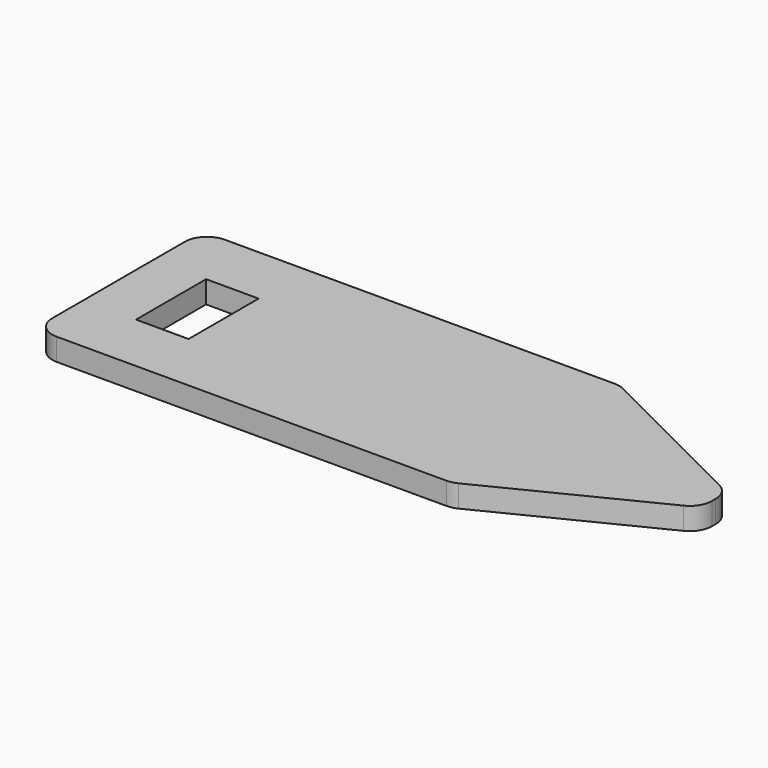
from build123d import *

# Parameters (mm, degrees)
F0_W       = 3
F0_H       = 3.5
F0_W_2     = 25
F0_H_2     = 12
F1_DEPTH   = 1.27
F2_SIZE2   = 5.08
F2_SIZE    = 10.16
F2_2_SIZE2 = 5.08
F2_2_SIZE  = 10.16
F3_R       = 1.27
F4_R       = 1.27


with BuildPart() as f1:
    # F0 (on Top) → F1 (new body)
    with BuildSketch(Plane.XY):
        Polygon((-42.1337384582, -30.2597887341), (-45.1337384582, -30.2597887341), (-45.1337384582, -42.2597887341), (-42.1337384582, -42.2597887341), (-42.1337384582, -38.7597887341), (-42.1337384582, -33.7597887341), align=None)
        with Locations((-40.6337384582, -32.0097887341)):
            Rectangle(F0_W, F0_H)
        with Locations((-40.6337384582, -40.5097887341)):
            Rectangle(F0_W, F0_H)
        Polygon((-36.1337384582, -30.2597887341), (-39.1337384582, -30.2597887341), (-39.1337384582, -33.7597887341), (-39.1337384582, -38.7597887341), (-39.1337384582, -42.2597887341), (-36.1337384582, -42.2597887341), align=None)
        with Locations((-23.6337384582, -36.2597887341)):
            Rectangle(F0_W_2, F0_H_2)
    extrude(amount=F1_DEPTH)

    # F2
    f2_edges = [f1.edges().sort_by_distance(p)[0] for p in [
        (-11.133738, -30.259789, 0.635),
    ]]
    f2_side = f1.faces().sort_by_distance((-28.133738, -30.259789, 0.635))[0]
    chamfer(f2_edges, length=F2_SIZE, length2=F2_SIZE2, reference=f2_side)

    # F2#2
    f2_2_edges = [f1.edges().sort_by_distance(p)[0] for p in [
        (-11.133738, -42.259789, 0.635),
    ]]
    f2_2_side = f1.faces().sort_by_distance((-28.133738, -42.259789, 0.635))[0]
    chamfer(f2_2_edges, length=F2_2_SIZE, length2=F2_2_SIZE2, reference=f2_2_side)

    # F3
    f3_edges = [f1.edges().sort_by_distance(p)[0] for p in [
        (-21.293738, -30.259789, 0.635),
        (-11.133738, -35.339789, 0.635),
        (-11.133738, -37.179789, 0.635),
        (-21.293738, -42.259789, 0.635),
    ]]
    fillet(f3_edges, radius=F3_R)

    # F4
    f4_edges = [f1.edges().sort_by_distance(p)[0] for p in [
        (-45.133738, -42.259789, 0.635),
        (-45.133738, -30.259789, 0.635),
    ]]
    fillet(f4_edges, radius=F4_R)


solid = f1.part
